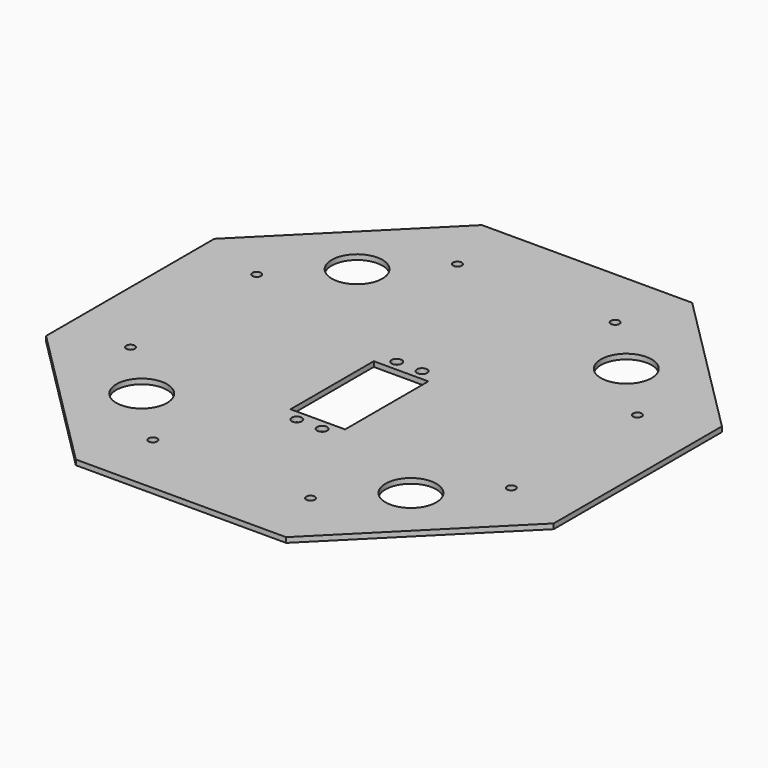
from build123d import *

# Parameters (mm, degrees)
F0_R     = 10
F0_R_2   = 1.7
F0_R_3   = 2
F0_W     = 21.5
F0_H     = 41
F1_DEPTH = 2


with BuildPart() as f1:
    # F0 (on Top) → F1 (new body)
    with BuildSketch(Plane.XY):
        Polygon((41.421356, 100), (-41.421356, 100), (-100, 41.421356), (-100, -41.421356), (-41.421356, -100), (41.421356, -100), (100, -41.421356), (100, 41.421356), align=None)
        with Locations((-53.033009, -53.033009)):
            Circle(F0_R, mode=Mode.SUBTRACT)
        with Locations((-31.066017, -75)):
            Circle(F0_R_2, mode=Mode.SUBTRACT)
        with Locations((-75, -31.066017)):
            Circle(F0_R_2, mode=Mode.SUBTRACT)
        with Locations((-5, -36.7)):
            Circle(F0_R_3, mode=Mode.SUBTRACT)
        with Locations((31.066017, -75)):
            Circle(F0_R_2, mode=Mode.SUBTRACT)
        with Locations((53.033009, -53.033009)):
            Circle(F0_R, mode=Mode.SUBTRACT)
        with Locations((5, -36.7)):
            Circle(F0_R_3, mode=Mode.SUBTRACT)
        with Locations((0, -12.1)):
            Rectangle(F0_W, F0_H, mode=Mode.SUBTRACT)
        with Locations((75, -31.066017)):
            Circle(F0_R_2, mode=Mode.SUBTRACT)
        with Locations((-75, 31.066017)):
            Circle(F0_R_2, mode=Mode.SUBTRACT)
        with Locations((-5, 12.5)):
            Circle(F0_R_3, mode=Mode.SUBTRACT)
        with Locations((-53.033009, 53.033009)):
            Circle(F0_R, mode=Mode.SUBTRACT)
        with Locations((-31.066017, 75)):
            Circle(F0_R_2, mode=Mode.SUBTRACT)
        with Locations((5, 12.5)):
            Circle(F0_R_3, mode=Mode.SUBTRACT)
        with Locations((75, 31.066017)):
            Circle(F0_R_2, mode=Mode.SUBTRACT)
        with Locations((31.066017, 75)):
            Circle(F0_R_2, mode=Mode.SUBTRACT)
        with Locations((53.033009, 53.033009)):
            Circle(F0_R, mode=Mode.SUBTRACT)
    extrude(amount=F1_DEPTH)


solid = f1.part
